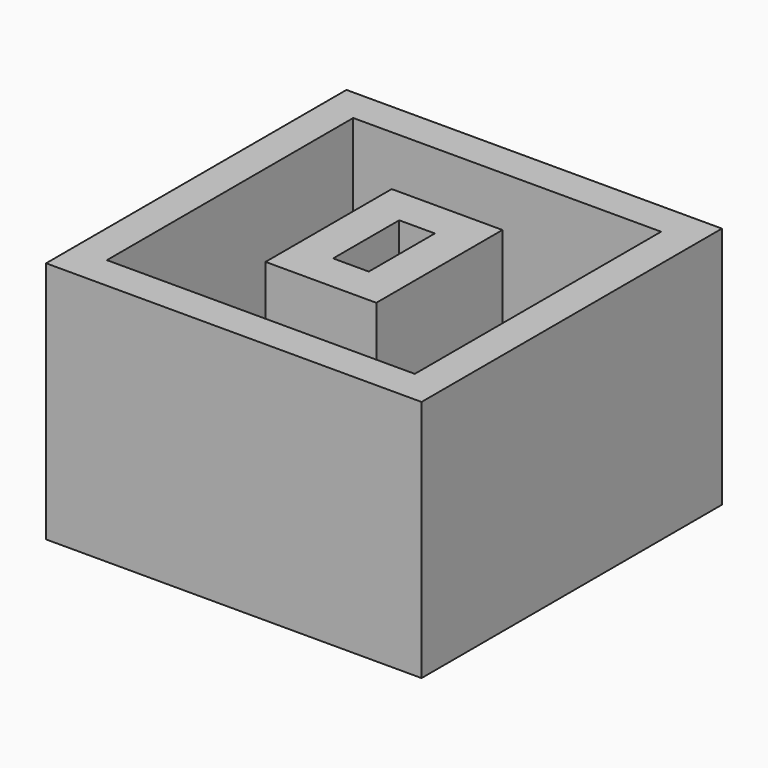
from build123d import *

# Parameters (mm, degrees)
F0_W     = 40
F0_H     = 40
F0_W_2   = 32.8
F0_H_2   = 32.8
F1_DEPTH = 25
F2_W     = 11.8
F2_H     = 16.8
F2_W_2   = 3.8
F2_H_2   = 8.8
F3_DEPTH = 25
F4_W     = 40
F4_H     = 40
F4_W_2   = 3.8
F4_H_2   = 8.8
F5_DEPTH = 0.9


with BuildPart() as f1:
    # F0 (on Top) → F1 (new body)
    with BuildSketch(Plane.XY):
        Rectangle(F0_W, F0_H)
        Rectangle(F0_W_2, F0_H_2, mode=Mode.SUBTRACT)
    extrude(amount=F1_DEPTH)



with BuildPart() as f3:
    # F2 (on Top) → F3 (new body)
    with BuildSketch(Plane.XY):
        Rectangle(F2_W, F2_H)
        Rectangle(F2_W_2, F2_H_2, mode=Mode.SUBTRACT)
    extrude(amount=F3_DEPTH)


with BuildPart() as f1_1:
    add(f1.part)

    add(f3.part)  # F5 merges F3
    # F4 (on face) → F5 (join)
    with BuildSketch(Plane(origin=(0, 0, 0), x_dir=(1, 0, 0), z_dir=(0, 0, -1))):
        Rectangle(F4_W, F4_H)
        Rectangle(F4_W_2, F4_H_2, mode=Mode.SUBTRACT)
    extrude(amount=F5_DEPTH)


solid = f1_1.part
